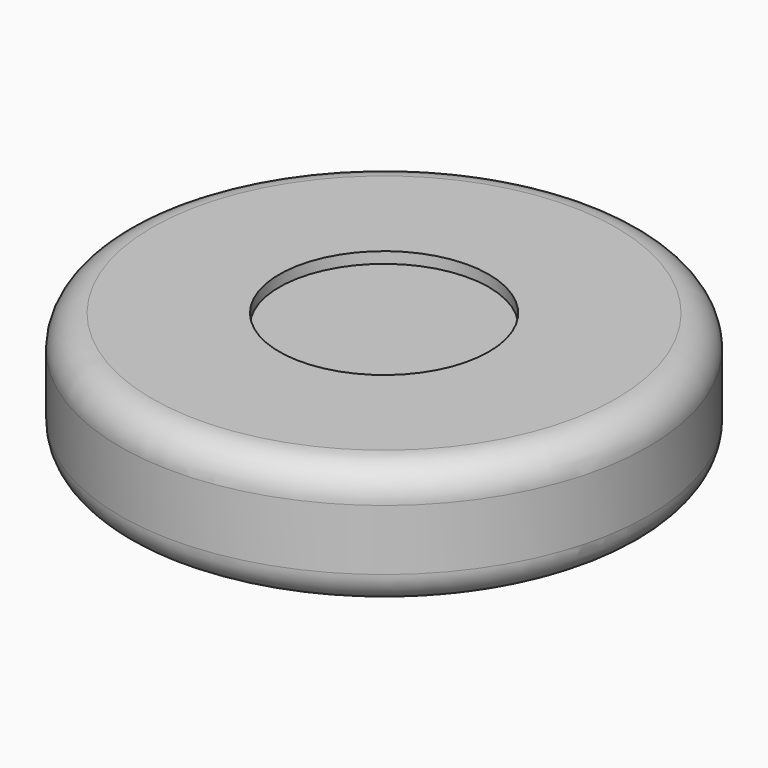
from build123d import *

# Parameters (mm, degrees)
F0_R     = 41.91
F1_DEPTH = 19.812
F2_R     = 16.637
F3_DEPTH = 1.778
F4_R     = 5.08


with BuildPart() as f1:
    # F0 (on Top) → F1 (new body)
    with BuildSketch(Plane.XY):
        Circle(F0_R)
    extrude(amount=F1_DEPTH)

    # F2 (on face) → F3 (cut)
    with BuildSketch(Plane.XY.offset(19.812)):
        Circle(F2_R)
    extrude(amount=-F3_DEPTH, mode=Mode.SUBTRACT)

    # F4
    f4_edges = [f1.edges().sort_by_distance(p)[0] for p in [
        (-41.91, 0, 0),
        (-41.91, 0, 19.812),
    ]]
    fillet(f4_edges, radius=F4_R)


solid = f1.part
